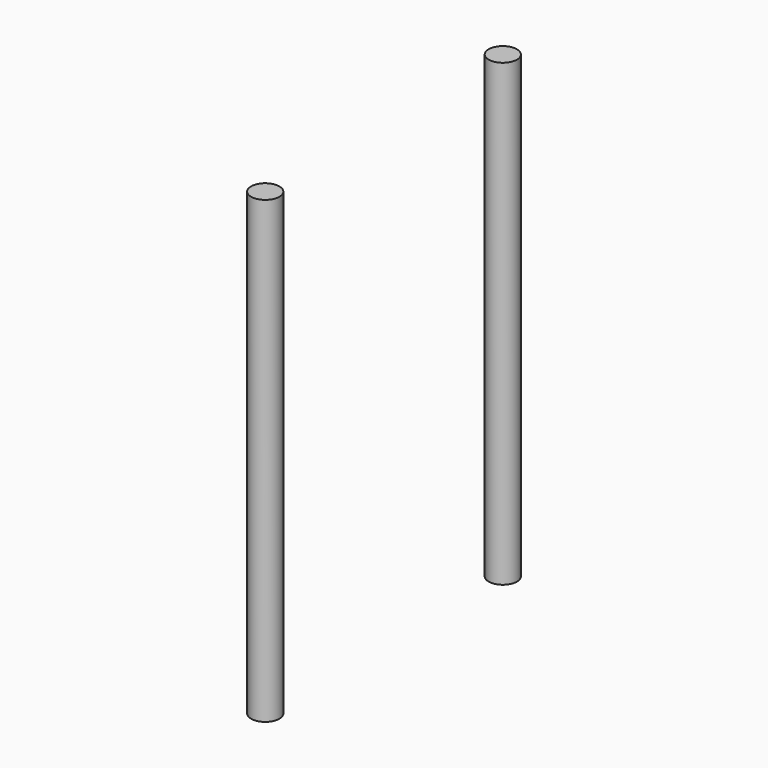
from build123d import *

# Parameters (mm, degrees)
CYLINDER360_R     = 2
CYLINDER360_DEPTH = 65
CYLINDER361_R     = 2
CYLINDER361_DEPTH = 65


with BuildPart() as cylinder360:
    # Cylinder360 → Cylinder360 (new body)
    with BuildSketch(Plane(origin=(-90, -103, -10), x_dir=(1, 0, 0), z_dir=(0, 0, 1))):
        Circle(CYLINDER360_R)
    extrude(amount=CYLINDER360_DEPTH)


with BuildPart() as fusion364:
    # Cylinder361 → Cylinder361 (new body)
    with BuildSketch(Plane(origin=(-90, -61, -10), x_dir=(1, 0, 0), z_dir=(0, 0, 1))):
        Circle(CYLINDER361_R)
    extrude(amount=CYLINDER361_DEPTH)

    # Fusion364: union Cylinder360
    add(cylinder360.part)


with BuildPart() as fusion364_1:
    # Fusion364 placement: moved
    add(fusion364.part.moved(Location((-2, 0, 0))))


solid = fusion364_1.part
